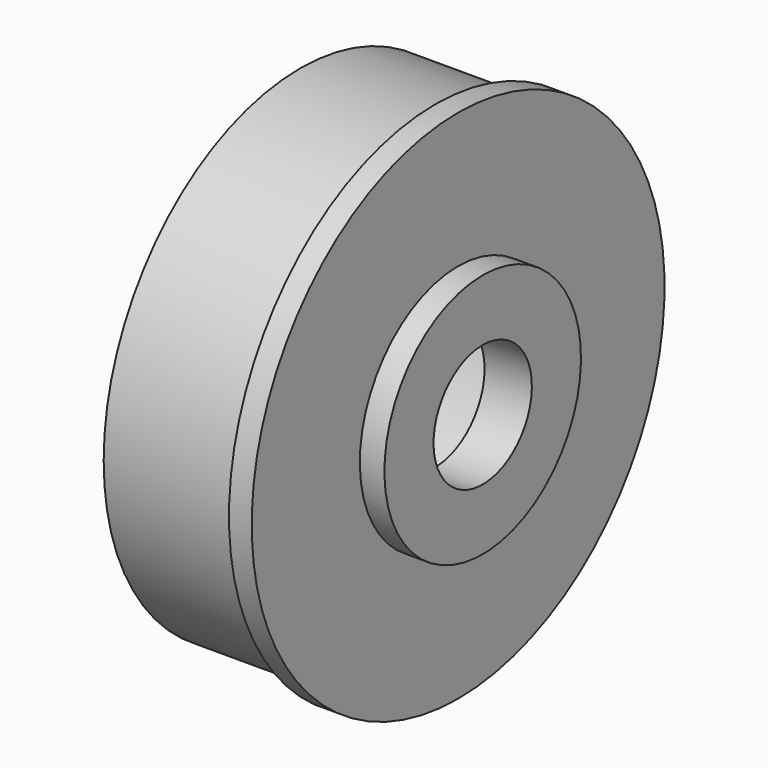
from build123d import *

# Parameters (mm, degrees)
F0_W   = 11
F0_H   = 3
F0_W_2 = 2
F0_H_2 = 5


with BuildPart() as f1:
    # F0 (on Front) → F1 (revolve)
    with BuildSketch(Plane.XZ):
        with Locations((-5.5, 18.5)):
            Rectangle(F0_W, F0_H)
        Polygon((0, 17), (0, 5), (1.85, 5), (1.85, 10), (1.85, 21), (0, 21), (0, 20), align=None)
        with Locations((2.85, 7.5)):
            Rectangle(F0_W_2, F0_H_2)
    revolve(axis=Axis((4.390737, 0, 0), (1, 0, 0)))


solid = f1.part
